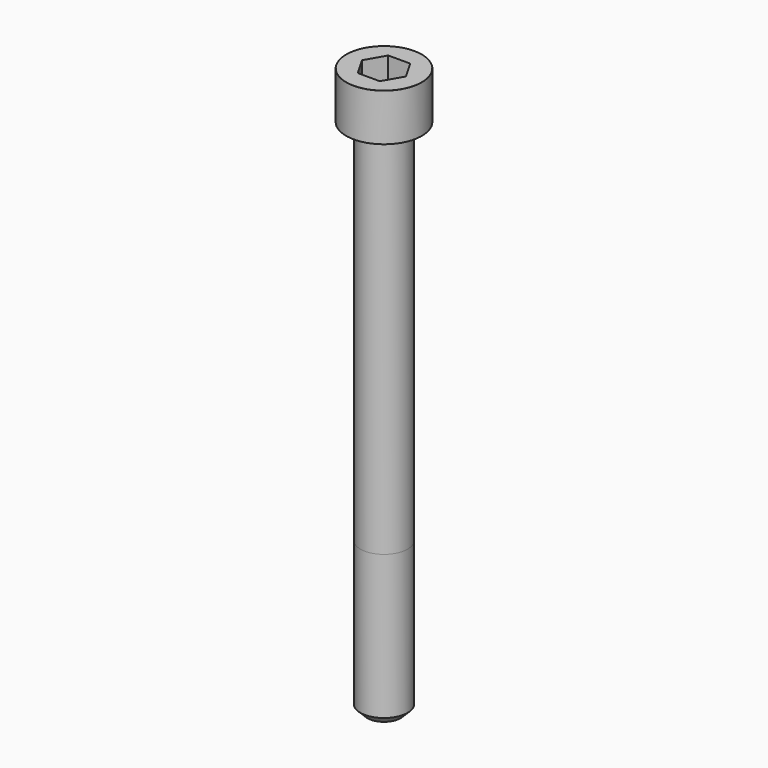
from build123d import *

# Parameters (mm, degrees)
POCKET_DEPTH = 8.07


with BuildPart() as part:
    # Sketch → Revolve (revolve)
    with BuildSketch(Plane.YZ):
        with BuildLine():
            Line((4.999, 0), (8, 0))
            Line((8, 0), (8, 9.97229))
            ThreePointArc((8, 9.97229), (7.991884, 9.991884), (7.97229, 10))
            Line((7.97229, 10), (0, 10))
            Line((0, -110), (0, 10))
            Line((3.5, -110), (0, -110))
            Line((5, -108.5), (3.5, -110))
            Line((5, -78), (5, -108.5))
            Line((4.999, 0), (5, -78))
        make_face()
    revolve(axis=Axis((0, 0, 0), (0, 0, 1)))

    # Sketch001 → Pocket (cut)
    with BuildSketch(Plane.XY.offset(10)):
        Polygon((4.659217, 0), (2.329608, 4.035), (-2.329608, 4.035), (-4.659217, 0), (-2.329608, -4.035), (2.329608, -4.035), align=None)
    extrude(amount=-POCKET_DEPTH, mode=Mode.SUBTRACT)


solid = part.part
